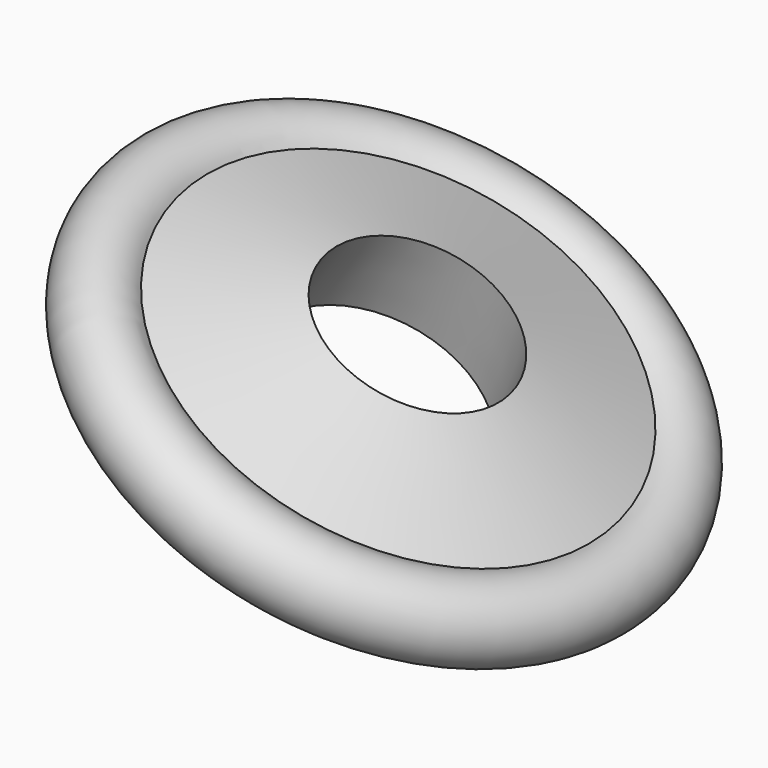
from build123d import *


with BuildPart() as f1:
    # F0 (on Front) → F1 (revolve)
    with BuildSketch(Plane.XZ):
        with BuildLine():
            ThreePointArc((-44.736777, 49.468551), (-58.399703, 53.787816), (-60.222581, 39.574839))
            Line((-60.222581, 39.574839), (-27.745403, 25.164437))
            Line((-27.745403, 25.164437), (-14.195323, 44.306614))
            Line((-14.195323, 44.306614), (-44.736777, 49.468551))
        make_face()
    revolve(axis=Axis((-3.850533, 0, 17.703017), (-0.467462, 0, -0.884013)))


solid = f1.part
